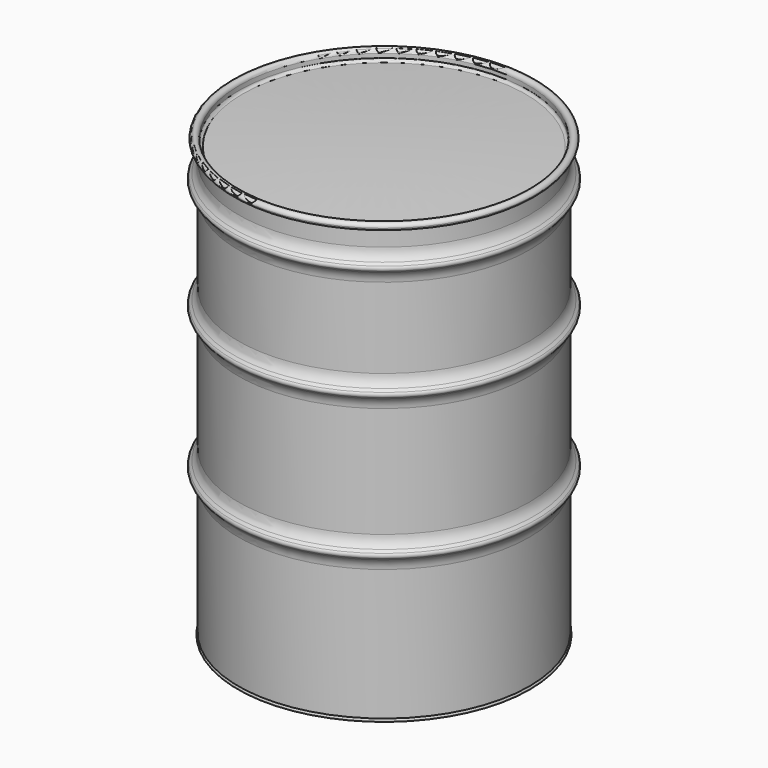
from build123d import *


with BuildPart() as f1:
    # F0 (on Front) → F1 (revolve)
    with BuildSketch(Plane.XZ):
        with BuildLine():
            ThreePointArc((-286.95, 6.1144940041), (-288.8655672407, 2.5635543618), (-285.75, 0))
            Line((-285.75, 0), (-285.75, 264.7053853094))
            ThreePointArc((-285.75, 264.7053853094), (-288.1517802847, 276.779950186), (-294.9914718626, 287.0162720164))
            Line((-294.9914718626, 287.0162720164), (-299.4815999231, 291.5064000769))
            ThreePointArc((-299.4815999231, 291.5064000769), (-300.99, 295.148), (-299.4815999231, 298.7895999231))
            Line((-299.4815999231, 298.7895999231), (-294.9914718626, 303.2797279836))
            ThreePointArc((-294.9914718626, 303.2797279836), (-288.1517802847, 313.516049814), (-285.75, 325.5906146906))
            Line((-285.75, 325.5906146906), (-285.75, 544.1053853094))
            ThreePointArc((-285.75, 544.1053853094), (-288.1517802847, 556.179950186), (-294.9914718626, 566.4162720164))
            Line((-294.9914718626, 566.4162720164), (-299.4815999231, 570.9064000769))
            ThreePointArc((-299.4815999231, 570.9064000769), (-300.99, 574.548), (-299.4815999231, 578.1895999231))
            Line((-299.4815999231, 578.1895999231), (-294.9914718626, 582.6797279836))
            ThreePointArc((-294.9914718626, 582.6797279836), (-288.1517802847, 592.916049814), (-285.75, 604.9906146906))
            Line((-285.75, 604.9906146906), (-285.75, 763.3073853094))
            ThreePointArc((-285.75, 763.3073853094), (-288.0349165099, 775.4494920595), (-294.8636514881, 785.7460923908))
            Line((-294.8636514881, 785.7460923908), (-299.3537795486, 790.2362204514))
            ThreePointArc((-299.3537795486, 790.2362204514), (-300.8092346929, 793.75), (-299.3537795486, 797.2637795486))
            Line((-299.3537795486, 797.2637795486), (-294.8636514881, 801.7539076092))
            ThreePointArc((-294.8636514881, 801.7539076092), (-288.1153434729, 812.0831739631), (-285.75, 824.1926146906))
            Line((-285.75, 824.1926146906), (-285.75, 863.6))
            ThreePointArc((-285.75, 863.6), (-297.7905093966, 866.4179075228), (-288.2509772621, 858.5495026024))
            Line((-288.2509772621, 858.5495026024), (-288.9783516377, 859.5039273075))
            ThreePointArc((-288.9783516377, 859.5039273075), (-296.7151375421, 865.8853895657), (-286.95, 863.6))
            Line((-286.95, 863.6), (-286.95, 824.1926146906))
            ThreePointArc((-286.95, 824.1926146906), (-289.2604357237, 812.5772699328), (-295.84, 802.7302561211))
            Line((-295.84, 802.7302561211), (-300.3301280605, 798.2401280605))
            ThreePointArc((-300.3301280605, 798.2401280605), (-302.19, 793.75), (-300.3301280605, 789.2598719395))
            Line((-300.3301280605, 789.2598719395), (-295.84, 784.7697438789))
            ThreePointArc((-295.84, 784.7697438789), (-289.2604357237, 774.9227300672), (-286.95, 763.3073853094))
            Line((-286.95, 763.3073853094), (-286.95, 604.9906146906))
            ThreePointArc((-286.95, 604.9906146906), (-289.2604357237, 593.3752699328), (-295.84, 583.5282561211))
            Line((-295.84, 583.5282561211), (-300.3301280605, 579.0381280605))
            ThreePointArc((-300.3301280605, 579.0381280605), (-302.19, 574.548), (-300.3301280605, 570.0578719395))
            Line((-300.3301280605, 570.0578719395), (-295.84, 565.5677438789))
            ThreePointArc((-295.84, 565.5677438789), (-289.2604357237, 555.7207300672), (-286.95, 544.1053853094))
            Line((-286.95, 544.1053853094), (-286.95, 325.5906146906))
            ThreePointArc((-286.95, 325.5906146906), (-289.2604357237, 313.9752699328), (-295.84, 304.1282561211))
            Line((-295.84, 304.1282561211), (-300.3301280605, 299.6381280605))
            ThreePointArc((-300.3301280605, 299.6381280605), (-302.19, 295.148), (-300.3301280605, 290.6578719395))
            Line((-300.3301280605, 290.6578719395), (-295.84, 286.1677438789))
            ThreePointArc((-295.84, 286.1677438789), (-289.2604357237, 276.3207300672), (-286.95, 264.7053853094))
            Line((-286.95, 264.7053853094), (-286.95, 6.1144940041))
        make_face()
    revolve(axis=Axis((0, 0, 88.6719599366), (0, 0, 1)))

    # F2 (on Front) → F3 (revolve)
    with BuildSketch(Plane.XZ):
        with BuildLine():
            ThreePointArc((-282.3056437117, 22.340553728), (-284.7227219076, 21.5153574593), (-285.75, 19.177))
            Line((-285.75, 19.177), (-285.75, 0))
            Line((-285.75, 0), (-284.55, 0))
            Line((-284.55, 0), (-284.55, 19.177))
            ThreePointArc((-284.55, 19.177), (-283.9109844937, 20.6315688133), (-282.4074476632, 21.144879878))
            ThreePointArc((-282.4074476632, 21.144879878), (-141.3311604119, 12.1455732105), (0, 9.144))
            Line((0, 9.144), (0, 10.344))
            ThreePointArc((0, 10.344), (-141.280212497, 13.3444911851), (-282.3056437117, 22.340553728))
        make_face()
    revolve(axis=Axis((0, 0, 97.150310874), (0, 0, -1)))


with BuildPart() as f5:
    # F4 (on Front) → F5 (revolve)
    with BuildSketch(Plane.XZ):
        with BuildLine():
            Line((-299.65, 863.6), (-298.45, 863.6))
            ThreePointArc((-298.45, 863.6), (-292.1, 869.95), (-285.75, 863.6))
            Line((-285.75, 863.6), (-285.75, 855.148))
            ThreePointArc((-285.75, 855.148), (-283.7523083437, 850.5241582984), (-279.0161694233, 848.809611081))
            ThreePointArc((-279.0161694233, 848.809611081), (-139.5719016894, 855.1394202562), (0, 857.25))
            Line((0, 857.25), (0, 858.45))
            ThreePointArc((0, 858.45), (-139.6081857357, 856.3388715757), (-279.0887043354, 850.007416861))
            ThreePointArc((-279.0887043354, 850.007416861), (-282.9298248772, 851.3979551554), (-284.55, 855.148))
            Line((-284.55, 855.148), (-284.55, 863.6))
            ThreePointArc((-284.55, 863.6), (-292.1, 871.15), (-299.65, 863.6))
        make_face()
    revolve(axis=Axis((0, 0, 399.7365534306), (0, 0, -1)))


solid = Compound([f1.part, f5.part])
